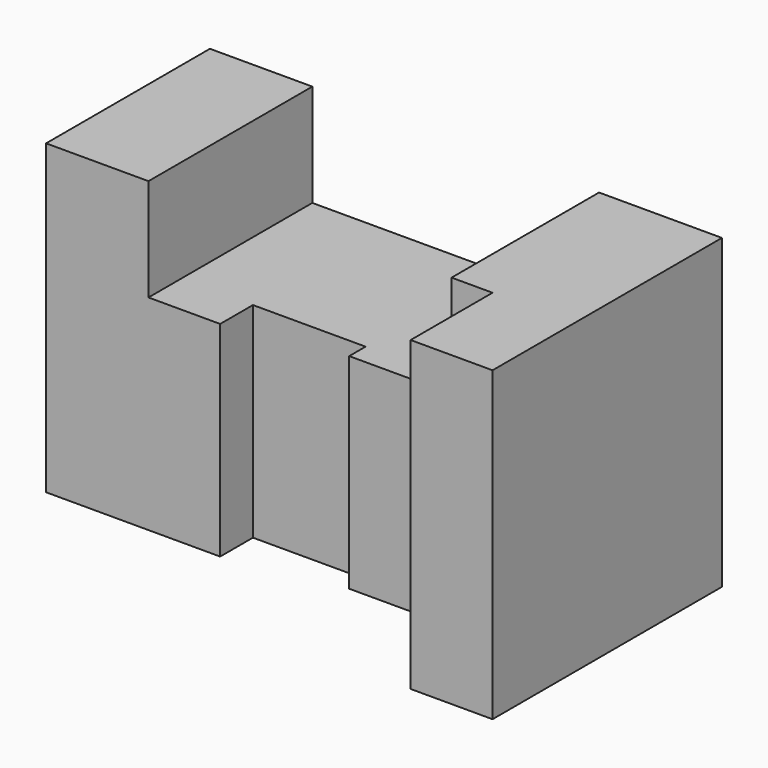
from build123d import *

# Parameters (mm, degrees)
F0_W     = 25
F0_H     = 50
F1_DEPTH = 75
F2_DEPTH = 50
F3_DEPTH = 75


with BuildPart() as f1:
    # F0 (on Top) → F1 (new body)
    with BuildSketch(Plane.XY):
        with Locations((12.5, 25)):
            Rectangle(F0_W, F0_H)
    extrude(amount=F1_DEPTH)

    # F0 (on Top) → F2 (join)
    with BuildSketch(Plane.XY):
        Polygon((25, 50), (25, 0), (42.5, 0), (42.5, 10), (70, 10), (70, 5), (95, 5), (95, 50), (70, 50), (42.5, 50), align=None)
    extrude(amount=F2_DEPTH)

    # F0 (on Top) → F3 (join)
    with BuildSketch(Plane.XY):
        Polygon((125, 50), (95, 50), (95, 5), (105, 5), (105, -20), (125, -20), (125, 5), align=None)
    extrude(amount=F3_DEPTH)


solid = f1.part
